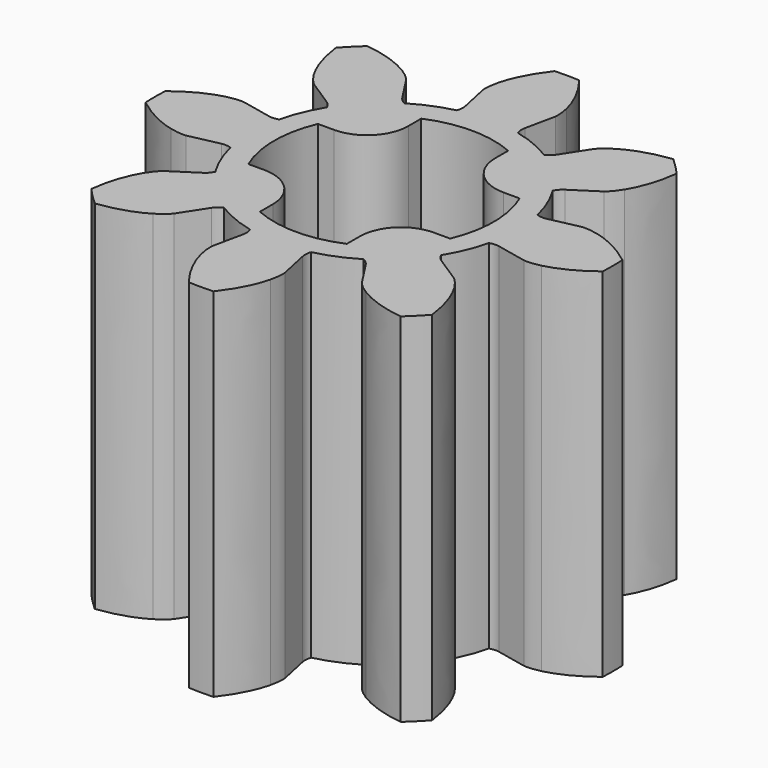
from build123d import *

# Parameters (mm, degrees)
PAD_DEPTH          = 7.8
SKETCH001_R        = 2.9
PAD001_DEPTH       = 7.8
POCKET_DEPTH       = 40.110996
POLARPATTERN_COUNT = 4
FILLET_R           = 0.9


with BuildPart() as part:
    # InvoluteGear → Pad (new body)
    with BuildSketch(Plane.XY):
        with BuildLine():
            Line((3.033448, -0.650534), (3.690445, -0.790452))
            add(Edge.make_bspline(
                [(3.690445, -0.790452), (3.729435, -0.795217), (3.846179, -0.802637), (4.045143, -0.756539)],
                knots=[0, 0, 0, 0, 1, 1, 1, 1], degree=3))
            add(Edge.make_bspline(
                [(4.045143, -0.756539), (4.280439, -0.699703), (4.611419, -0.567961), (4.994524, -0.269629)],
                knots=[0, 0, 0, 0, 1, 1, 1, 1], degree=3))
            ThreePointArc((4.994524, -0.269629), (5.001799, 0), (4.994524, 0.269629))
            add(Edge.make_bspline(
                [(4.994524, 0.269629), (4.611419, 0.567961), (4.280439, 0.699703), (4.045143, 0.756539)],
                knots=[0, 0, 0, 0, 1, 1, 1, 1], degree=3))
            add(Edge.make_bspline(
                [(4.045143, 0.756539), (3.846179, 0.802637), (3.729435, 0.795217), (3.690445, 0.790452)],
                knots=[0, 0, 0, 0, 1, 1, 1, 1], degree=3))
            Line((3.690445, 0.790452), (3.033448, 0.650534))
            ThreePointArc((3.033448, 0.650534), (2.771469, 0.690068), (2.601007, 0.892895))
            ThreePointArc((2.601007, 0.892895), (2.540669, 1.052379), (2.470562, 1.207818))
            ThreePointArc((2.470562, 1.207818), (2.447677, 1.471773), (2.604969, 1.684974))
            Line((2.604969, 1.684974), (3.168472, 2.050605))
            add(Edge.make_bspline(
                [(3.168472, 2.050605), (3.199412, 2.074806), (3.28721, 2.152109), (3.395302, 2.325394)],
                knots=[0, 0, 0, 0, 1, 1, 1, 1], degree=3))
            add(Edge.make_bspline(
                [(3.395302, 2.325394), (3.521492, 2.531963), (3.662375, 2.859156), (3.722318, 3.341005)],
                knots=[0, 0, 0, 0, 1, 1, 1, 1], degree=3))
            ThreePointArc((3.722318, 3.341005), (3.536806, 3.536806), (3.341005, 3.722318))
            add(Edge.make_bspline(
                [(3.341005, 3.722318), (2.859156, 3.662375), (2.531963, 3.521492), (2.325394, 3.395302)],
                knots=[0, 0, 0, 0, 1, 1, 1, 1], degree=3))
            add(Edge.make_bspline(
                [(2.325394, 3.395302), (2.152109, 3.28721), (2.074806, 3.199412), (2.050605, 3.168472)],
                knots=[0, 0, 0, 0, 1, 1, 1, 1], degree=3))
            Line((2.050605, 3.168472), (1.684974, 2.604969))
            ThreePointArc((1.684974, 2.604969), (1.471773, 2.447677), (1.207818, 2.470562))
            ThreePointArc((1.207818, 2.470562), (1.052379, 2.540669), (0.892895, 2.601007))
            ThreePointArc((0.892895, 2.601007), (0.690068, 2.771469), (0.650534, 3.033448))
            Line((0.650534, 3.033448), (0.790452, 3.690445))
            add(Edge.make_bspline(
                [(0.790452, 3.690445), (0.795217, 3.729435), (0.802637, 3.846179), (0.756539, 4.045143)],
                knots=[0, 0, 0, 0, 1, 1, 1, 1], degree=3))
            add(Edge.make_bspline(
                [(0.756539, 4.045143), (0.699703, 4.280439), (0.567961, 4.611419), (0.269629, 4.994524)],
                knots=[0, 0, 0, 0, 1, 1, 1, 1], degree=3))
            ThreePointArc((0.269629, 4.994524), (0, 5.001799), (-0.269629, 4.994524))
            add(Edge.make_bspline(
                [(-0.269629, 4.994524), (-0.567961, 4.611419), (-0.699703, 4.280439), (-0.756539, 4.045143)],
                knots=[0, 0, 0, 0, 1, 1, 1, 1], degree=3))
            add(Edge.make_bspline(
                [(-0.756539, 4.045143), (-0.802637, 3.846179), (-0.795217, 3.729435), (-0.790452, 3.690445)],
                knots=[0, 0, 0, 0, 1, 1, 1, 1], degree=3))
            Line((-0.790452, 3.690445), (-0.650534, 3.033448))
            ThreePointArc((-0.650534, 3.033448), (-0.690068, 2.771469), (-0.892895, 2.601007))
            ThreePointArc((-0.892895, 2.601007), (-1.052379, 2.540669), (-1.207818, 2.470562))
            ThreePointArc((-1.207818, 2.470562), (-1.471773, 2.447677), (-1.684974, 2.604969))
            Line((-1.684974, 2.604969), (-2.050605, 3.168472))
            add(Edge.make_bspline(
                [(-2.050605, 3.168472), (-2.074806, 3.199412), (-2.152109, 3.28721), (-2.325394, 3.395302)],
                knots=[0, 0, 0, 0, 1, 1, 1, 1], degree=3))
            add(Edge.make_bspline(
                [(-2.325394, 3.395302), (-2.531963, 3.521492), (-2.859156, 3.662375), (-3.341005, 3.722318)],
                knots=[0, 0, 0, 0, 1, 1, 1, 1], degree=3))
            ThreePointArc((-3.341005, 3.722318), (-3.536806, 3.536806), (-3.722318, 3.341005))
            add(Edge.make_bspline(
                [(-3.722318, 3.341005), (-3.662375, 2.859156), (-3.521492, 2.531963), (-3.395302, 2.325394)],
                knots=[0, 0, 0, 0, 1, 1, 1, 1], degree=3))
            add(Edge.make_bspline(
                [(-3.395302, 2.325394), (-3.28721, 2.152109), (-3.199412, 2.074806), (-3.168472, 2.050605)],
                knots=[0, 0, 0, 0, 1, 1, 1, 1], degree=3))
            Line((-3.168472, 2.050605), (-2.604969, 1.684974))
            ThreePointArc((-2.604969, 1.684974), (-2.447677, 1.471773), (-2.470562, 1.207818))
            ThreePointArc((-2.470562, 1.207818), (-2.540669, 1.052379), (-2.601007, 0.892895))
            ThreePointArc((-2.601007, 0.892895), (-2.771469, 0.690068), (-3.033448, 0.650534))
            Line((-3.033448, 0.650534), (-3.690445, 0.790452))
            add(Edge.make_bspline(
                [(-3.690445, 0.790452), (-3.729435, 0.795217), (-3.846179, 0.802637), (-4.045143, 0.756539)],
                knots=[0, 0, 0, 0, 1, 1, 1, 1], degree=3))
            add(Edge.make_bspline(
                [(-4.045143, 0.756539), (-4.280439, 0.699703), (-4.611419, 0.567961), (-4.994524, 0.269629)],
                knots=[0, 0, 0, 0, 1, 1, 1, 1], degree=3))
            ThreePointArc((-4.994524, 0.269629), (-5.001799, 0), (-4.994524, -0.269629))
            add(Edge.make_bspline(
                [(-4.994524, -0.269629), (-4.611419, -0.567961), (-4.280439, -0.699703), (-4.045143, -0.756539)],
                knots=[0, 0, 0, 0, 1, 1, 1, 1], degree=3))
            add(Edge.make_bspline(
                [(-4.045143, -0.756539), (-3.846179, -0.802637), (-3.729435, -0.795217), (-3.690445, -0.790452)],
                knots=[0, 0, 0, 0, 1, 1, 1, 1], degree=3))
            Line((-3.690445, -0.790452), (-3.033448, -0.650534))
            ThreePointArc((-3.033448, -0.650534), (-2.771469, -0.690068), (-2.601007, -0.892895))
            ThreePointArc((-2.601007, -0.892895), (-2.540669, -1.052379), (-2.470562, -1.207818))
            ThreePointArc((-2.470562, -1.207818), (-2.447677, -1.471773), (-2.604969, -1.684974))
            Line((-2.604969, -1.684974), (-3.168472, -2.050605))
            add(Edge.make_bspline(
                [(-3.168472, -2.050605), (-3.199412, -2.074806), (-3.28721, -2.152109), (-3.395302, -2.325394)],
                knots=[0, 0, 0, 0, 1, 1, 1, 1], degree=3))
            add(Edge.make_bspline(
                [(-3.395302, -2.325394), (-3.521492, -2.531963), (-3.662375, -2.859156), (-3.722318, -3.341005)],
                knots=[0, 0, 0, 0, 1, 1, 1, 1], degree=3))
            ThreePointArc((-3.722318, -3.341005), (-3.536806, -3.536806), (-3.341005, -3.722318))
            add(Edge.make_bspline(
                [(-3.341005, -3.722318), (-2.859156, -3.662375), (-2.531963, -3.521492), (-2.325394, -3.395302)],
                knots=[0, 0, 0, 0, 1, 1, 1, 1], degree=3))
            add(Edge.make_bspline(
                [(-2.325394, -3.395302), (-2.152109, -3.28721), (-2.074806, -3.199412), (-2.050605, -3.168472)],
                knots=[0, 0, 0, 0, 1, 1, 1, 1], degree=3))
            Line((-2.050605, -3.168472), (-1.684974, -2.604969))
            ThreePointArc((-1.684974, -2.604969), (-1.471773, -2.447677), (-1.207818, -2.470562))
            ThreePointArc((-1.207818, -2.470562), (-1.052379, -2.540669), (-0.892895, -2.601007))
            ThreePointArc((-0.892895, -2.601007), (-0.690068, -2.771469), (-0.650534, -3.033448))
            Line((-0.650534, -3.033448), (-0.790452, -3.690445))
            add(Edge.make_bspline(
                [(-0.790452, -3.690445), (-0.795217, -3.729435), (-0.802637, -3.846179), (-0.756539, -4.045143)],
                knots=[0, 0, 0, 0, 1, 1, 1, 1], degree=3))
            add(Edge.make_bspline(
                [(-0.756539, -4.045143), (-0.699703, -4.280439), (-0.567961, -4.611419), (-0.269629, -4.994524)],
                knots=[0, 0, 0, 0, 1, 1, 1, 1], degree=3))
            ThreePointArc((-0.269629, -4.994524), (0, -5.001799), (0.269629, -4.994524))
            add(Edge.make_bspline(
                [(0.269629, -4.994524), (0.567961, -4.611419), (0.699703, -4.280439), (0.756539, -4.045143)],
                knots=[0, 0, 0, 0, 1, 1, 1, 1], degree=3))
            add(Edge.make_bspline(
                [(0.756539, -4.045143), (0.802637, -3.846179), (0.795217, -3.729435), (0.790452, -3.690445)],
                knots=[0, 0, 0, 0, 1, 1, 1, 1], degree=3))
            Line((0.790452, -3.690445), (0.650534, -3.033448))
            ThreePointArc((0.650534, -3.033448), (0.690068, -2.771469), (0.892895, -2.601007))
            ThreePointArc((0.892895, -2.601007), (1.052379, -2.540669), (1.207818, -2.470562))
            ThreePointArc((1.207818, -2.470562), (1.471773, -2.447677), (1.684974, -2.604969))
            Line((1.684974, -2.604969), (2.050605, -3.168472))
            add(Edge.make_bspline(
                [(2.050605, -3.168472), (2.074806, -3.199412), (2.152109, -3.28721), (2.325394, -3.395302)],
                knots=[0, 0, 0, 0, 1, 1, 1, 1], degree=3))
            add(Edge.make_bspline(
                [(2.325394, -3.395302), (2.531963, -3.521492), (2.859156, -3.662375), (3.341005, -3.722318)],
                knots=[0, 0, 0, 0, 1, 1, 1, 1], degree=3))
            ThreePointArc((3.341005, -3.722318), (3.536806, -3.536806), (3.722318, -3.341005))
            add(Edge.make_bspline(
                [(3.722318, -3.341005), (3.662375, -2.859156), (3.521492, -2.531963), (3.395302, -2.325394)],
                knots=[0, 0, 0, 0, 1, 1, 1, 1], degree=3))
            add(Edge.make_bspline(
                [(3.395302, -2.325394), (3.28721, -2.152109), (3.199412, -2.074806), (3.168472, -2.050605)],
                knots=[0, 0, 0, 0, 1, 1, 1, 1], degree=3))
            Line((3.168472, -2.050605), (2.604969, -1.684974))
            ThreePointArc((2.604969, -1.684974), (2.447677, -1.471773), (2.470562, -1.207818))
            ThreePointArc((2.470562, -1.207818), (2.540669, -1.052379), (2.601007, -0.892895))
            ThreePointArc((2.601007, -0.892895), (2.771469, -0.690068), (3.033448, -0.650534))
        make_face()
    extrude(amount=PAD_DEPTH)

    # Sketch001 → Pad001 (join)
    with BuildSketch(Plane.XY.offset(7.8)):
        Circle(SKETCH001_R)
    extrude(amount=-PAD001_DEPTH)

    # Sketch (on Face81 of Pad) → Pocket (cut, through all)
    with BuildSketch(Plane(origin=(0, 0, 0), x_dir=(1, 0, 0), z_dir=(0, 0, -1))):
        with BuildLine():
            Line((0, 0), (0.95, 0))
            Line((0.95, 0), (0.95, 2.203974))
            ThreePointArc((0.95, 2.203974), (0, 2.4), (-0.95, 2.203974))
            Line((-0.95, 0), (-0.95, 2.203974))
            Line((0, 0), (-0.95, 0))
        make_face()
    pocket = extrude(amount=-POCKET_DEPTH, mode=Mode.SUBTRACT)

    # PolarPattern: Pocket ×4 about axis
    polarpattern_axis = Axis((0, 0, 0), (0, 0, -1))
    for i in range(1, POLARPATTERN_COUNT):
        add(pocket.rotate(polarpattern_axis, i * 360 / POLARPATTERN_COUNT), mode=Mode.SUBTRACT)

    # Fillet
    fillet_edges = [part.edges().sort_by_distance(p)[0] for p in [
        (0.95, 0.95, 3.9),
        (0.95, -0.95, 3.9),
        (-0.95, 0.95, 3.9),
        (-0.95, -0.95, 3.9),
    ]]
    fillet(fillet_edges, radius=FILLET_R)


solid = part.part
